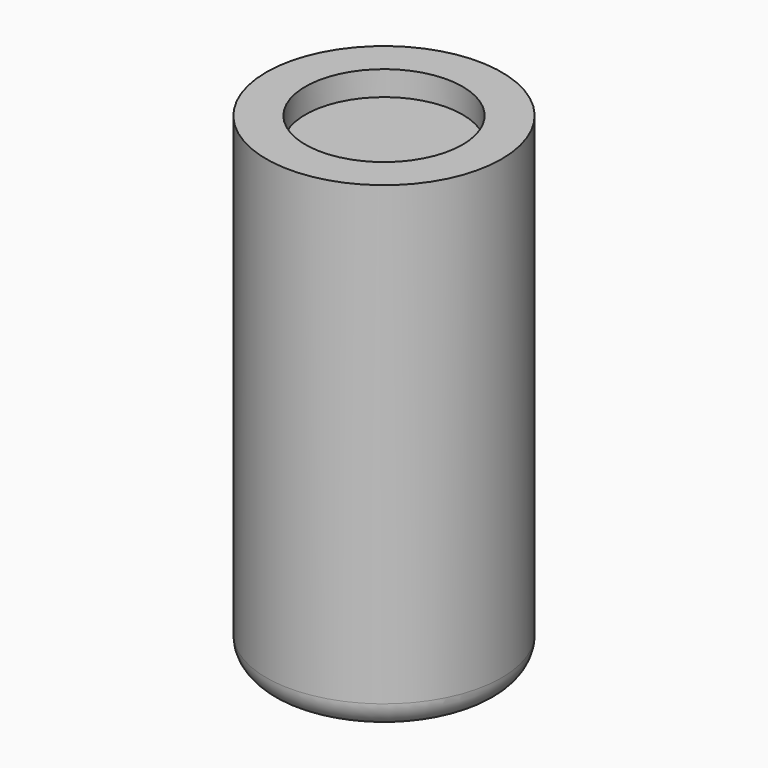
from build123d import *

# Parameters (mm, degrees)
F0_R     = 22.8092
F1_DEPTH = 93.599
F2_R     = 15.24
F3_DEPTH = 4.7752
F4_R     = 5.08
F5_T     = -2.54


with BuildPart() as f1:
    # F0 (on Top) → F1 (new body)
    with BuildSketch(Plane.XY):
        with Locations((-112.9804104567, -38.8761870563)):
            Circle(F0_R)
    extrude(amount=F1_DEPTH)

    # F2 (on face) → F3 (cut)
    with BuildSketch(Plane.XY.offset(93.599)):
        with Locations((-112.9804104567, -38.8761870563)):
            Circle(F2_R)
    extrude(amount=-F3_DEPTH, mode=Mode.SUBTRACT)

    # F4
    f4_edges = [f1.edges().sort_by_distance(p)[0] for p in [
        (-135.78961, -38.876187, 0),
    ]]
    fillet(f4_edges, radius=F4_R)

    # F5 (hollow: no face is removed)
    offset(amount=F5_T, kind=Kind.INTERSECTION, mode=Mode.SUBTRACT)


solid = f1.part
